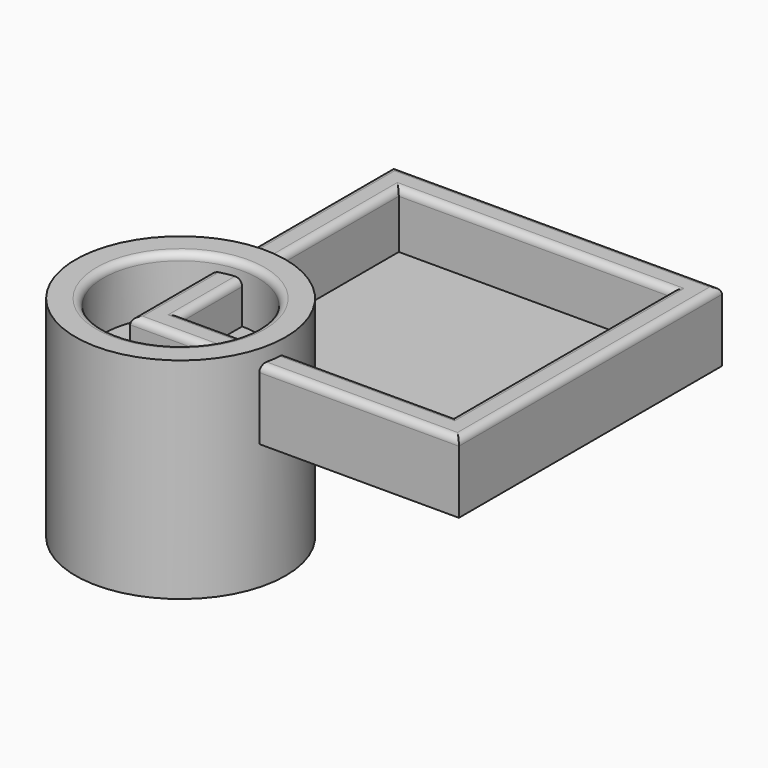
from build123d import *

# Parameters (mm, degrees)
SKETCH_W        = 46.95
SKETCH_H        = 46.95
SKETCH_W_2      = 38.95
SKETCH_H_2      = 38.95
PAD_DEPTH       = 28
SKETCH001_W     = 38.95
SKETCH001_H     = 38.95
PAD001_DEPTH    = 20
FILLET_R        = 1
SKETCH002_R     = 74.3428
POCKET_DEPTH    = 18
SKETCH003_R     = 15
PAD002_DEPTH    = 30
SKETCH004_R     = 11
POCKET001_DEPTH = 8.001
FILLET001_R     = 1


with BuildPart() as body:
    # Sketch → Pad (new body)
    with BuildSketch(Plane.XY):
        with Locations((19.475, 19.475)):
            Rectangle(SKETCH_W, SKETCH_H)
        with Locations((19.475, 19.475)):
            Rectangle(SKETCH_W_2, SKETCH_H_2, mode=Mode.SUBTRACT)
    extrude(amount=PAD_DEPTH)

    # Sketch001 → Pad001 (join)
    with BuildSketch(Plane.XY):
        with Locations((19.475, 19.475)):
            Rectangle(SKETCH001_W, SKETCH001_H)
    extrude(amount=PAD001_DEPTH)

    # Fillet
    fillet_edges = [body.edges().sort_by_distance(p)[0] for p in [
        (19.475, 42.95, 28),
        (42.95, 19.475, 28),
        (19.475, -4, 28),
        (-4, 19.475, 28),
        (19.475, 0, 28),
        (38.95, 19.475, 28),
        (19.475, 38.95, 28),
        (0, 19.475, 28),
    ]]
    fillet(fillet_edges, radius=FILLET_R)

    # Sketch002 → Pocket (cut)
    with BuildSketch(Plane.XY):
        with Locations((-5.043797, 44.418015)):
            Circle(SKETCH002_R)
    extrude(amount=POCKET_DEPTH, mode=Mode.SUBTRACT)


with BuildPart() as body001shelfcenter:
    # Sketch003 → Pad002 (new body)
    with BuildSketch(Plane.XY):
        Circle(SKETCH003_R)
    extrude(amount=PAD002_DEPTH)

    # Sketch004 → Pocket001 (cut, through all)
    with BuildSketch(Plane.XY.offset(22)):
        Circle(SKETCH004_R)
    extrude(amount=POCKET001_DEPTH, mode=Mode.SUBTRACT)

    # Fillet001
    fillet001_edges = [body001shelfcenter.edges().sort_by_distance(p)[0] for p in [
        (-11, 0, 30),
    ]]
    fillet(fillet001_edges, radius=FILLET001_R)


solid = Compound([body.part, body001shelfcenter.part])
